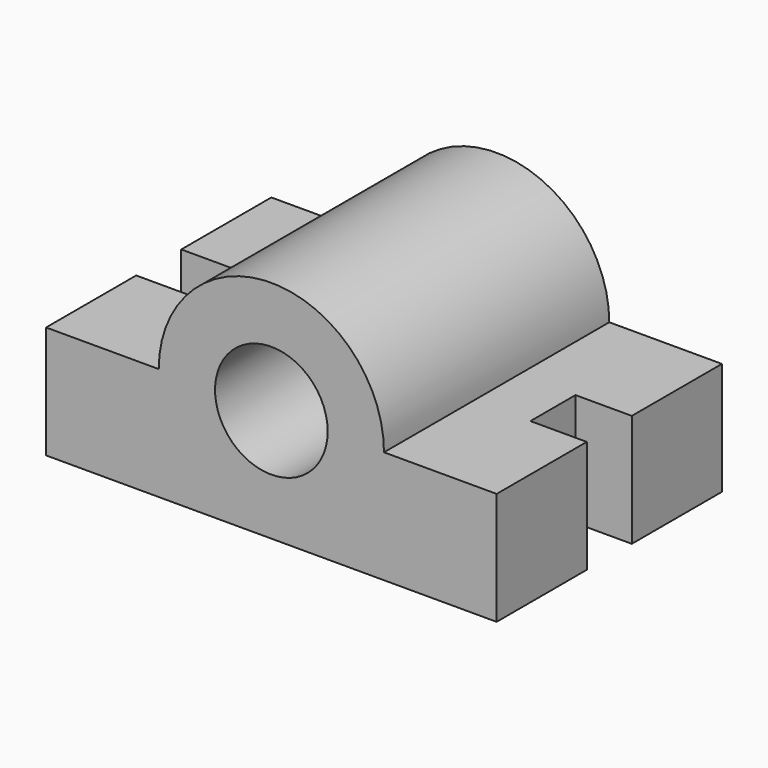
from build123d import *

# Parameters (mm, degrees)
F0_R     = 12.7
F1_DEPTH = 63.5
F2_W     = 12.7
F2_H     = 12.7
F3_DEPTH = 50.801


with BuildPart() as f1:
    # F0 (on Front) → F1 (new body)
    with BuildSketch(Plane.XZ):
        with BuildLine():
            Line((0, 25.4), (0, 0))
            Line((0, 0), (101.6, 0))
            Line((101.6, 0), (101.6, 25.4))
            Line((101.6, 25.4), (76.2, 25.4))
            ThreePointArc((76.2, 25.4), (50.8, 50.8), (25.4, 25.4))
            Line((25.4, 25.4), (0, 25.4))
        make_face()
        with Locations((50.8, 25.4)):
            Circle(F0_R, mode=Mode.SUBTRACT)
    extrude(amount=F1_DEPTH)

    # F2 (on Top) → F3 (cut, through all)
    with BuildSketch(Plane.XY):
        with Locations((6.35, -31.75)):
            Rectangle(F2_W, F2_H)
        with Locations((95.25, -31.75)):
            Rectangle(F2_W, F2_H)
    extrude(amount=F3_DEPTH, mode=Mode.SUBTRACT)


solid = f1.part
